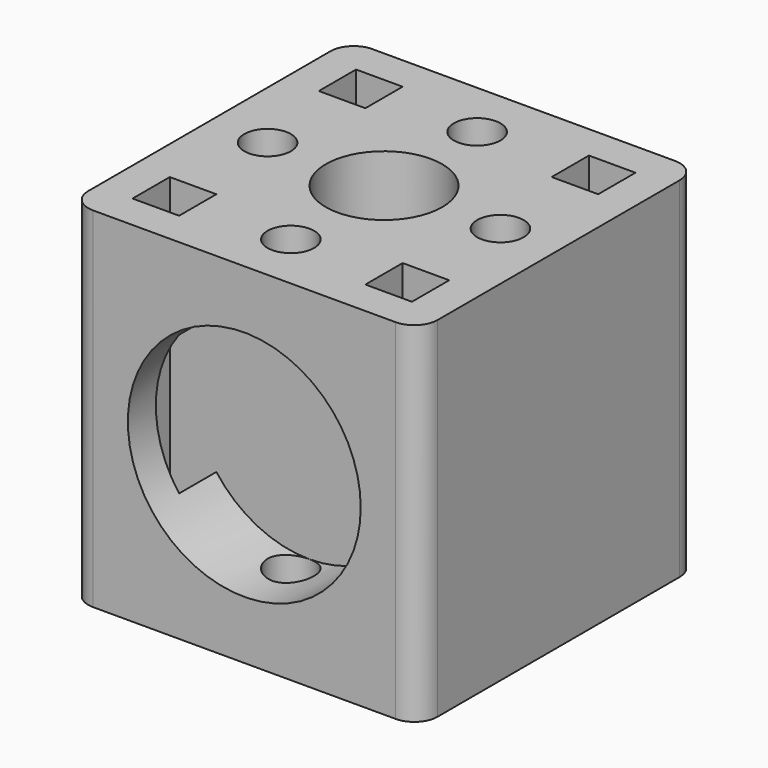
from build123d import *

# Parameters (mm, degrees)
F0_W     = 30
F0_H     = 30
F0_W_2   = 4
F0_H_2   = 4
F0_R     = 2
F0_R_2   = 5
F1_DEPTH = 30
F2_R     = 2
F3_R     = 10
F4_DEPTH = 7
F5_R     = 10
F6_DEPTH = 7


with BuildPart() as f1:
    # F0 (on Top) → F1 (new body)
    with BuildSketch(Plane.XY):
        Rectangle(F0_W, F0_H)
        with Locations((-10, -10)):
            Rectangle(F0_W_2, F0_H_2, mode=Mode.SUBTRACT)
        with Locations((0, -10)):
            Circle(F0_R, mode=Mode.SUBTRACT)
        with Locations((10, -10)):
            Rectangle(F0_W_2, F0_H_2, mode=Mode.SUBTRACT)
        with Locations((-10, 0)):
            Circle(F0_R, mode=Mode.SUBTRACT)
        with Locations((-10, 10)):
            Rectangle(F0_W_2, F0_H_2, mode=Mode.SUBTRACT)
        Circle(F0_R_2, mode=Mode.SUBTRACT)
        with Locations((10, 0)):
            Circle(F0_R, mode=Mode.SUBTRACT)
        with Locations((0, 10)):
            Circle(F0_R, mode=Mode.SUBTRACT)
        with Locations((10, 10)):
            Rectangle(F0_W_2, F0_H_2, mode=Mode.SUBTRACT)
    extrude(amount=F1_DEPTH)

    # F2
    f2_edges = [f1.edges().sort_by_distance(p)[0] for p in [
        (-15, 15, 15),
        (-15, -15, 15),
        (15, 15, 15),
        (15, -15, 15),
    ]]
    fillet(f2_edges, radius=F2_R)

    # F3 (on face) → F4 (cut)
    with BuildSketch(Plane(origin=(0, 15, 0), x_dir=(-1, 0, 0), z_dir=(0, 1, 0))):
        with Locations((0, 15)):
            Circle(F3_R)
    extrude(amount=-F4_DEPTH, mode=Mode.SUBTRACT)

    # F5 (on face) → F6 (cut)
    with BuildSketch(Plane.XZ.offset(15)):
        with Locations((0, 15)):
            Circle(F5_R)
    extrude(amount=-F6_DEPTH, mode=Mode.SUBTRACT)


solid = f1.part
